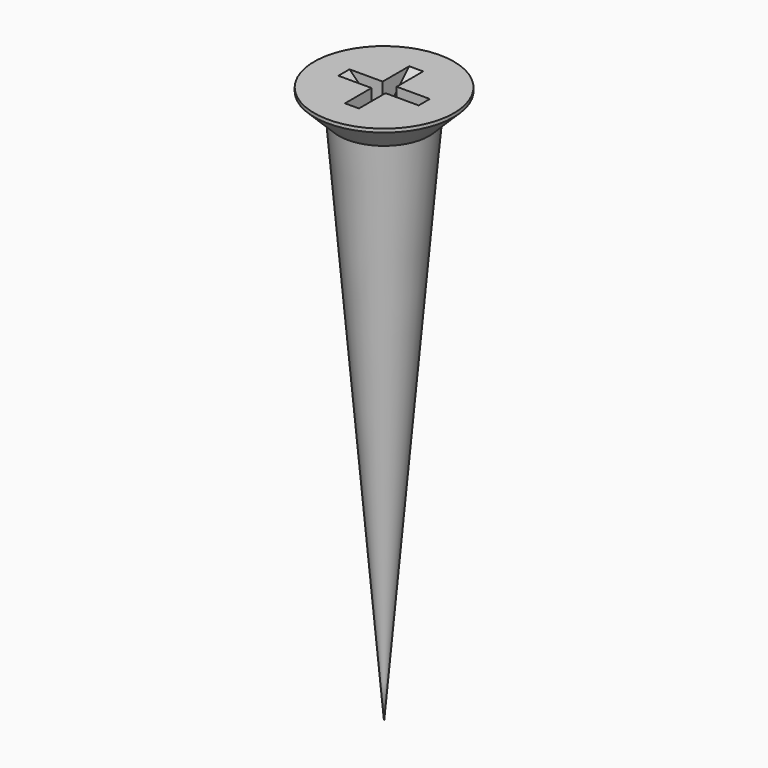
from build123d import *

# Parameters (mm, degrees)
POCKET_DEPTH       = 0.2
POLARPATTERN_COUNT = 2
POLARPATTERN_ANGLE = 90


with BuildPart() as part:
    # Sketch → Revolution (revolve)
    with BuildSketch(Plane.XZ):
        Polygon((0, 0), (0, -16), (1.3, -0.8), (2, -0.1), (2, 0), align=None)
    revolve(axis=Axis((0, 0, 0), (0, 0, 1)))

    # Sketch001 → Pocket (cut, symmetric)
    with BuildSketch(Plane.XZ):
        Polygon((-1.15, 0), (0, -1.15), (1.15, 0), align=None)
    pocket = extrude(amount=POCKET_DEPTH, both=True, mode=Mode.SUBTRACT)

    # PolarPattern: Pocket ×2 about axis
    polarpattern_axis = Axis((0, 0, 0), (0, 0, 1))
    for i in range(1, POLARPATTERN_COUNT):
        add(pocket.rotate(polarpattern_axis, i * POLARPATTERN_ANGLE / (POLARPATTERN_COUNT - 1)), mode=Mode.SUBTRACT)


solid = part.part
